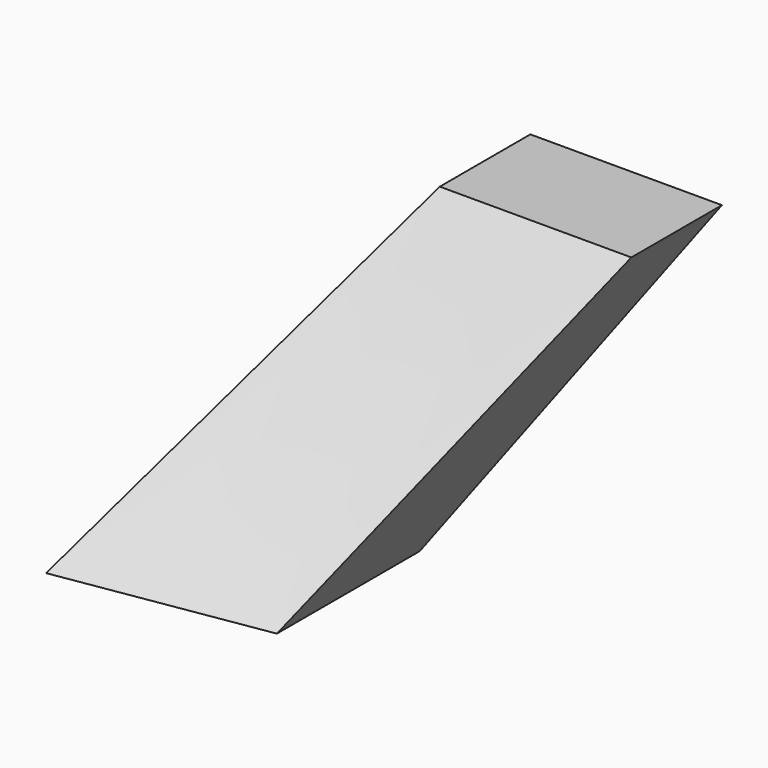
from build123d import *

# Parameters (mm, degrees)
F2_W = 36.537992
F2_H = 21.590634


with BuildPart() as f3:
    # F0 (on Top) → F3 section 0
    with BuildSketch(Plane.XY):
        Polygon((-20.952431, -29.079724), (-54.999199, -17.453996), (-59.981655, -69.354557), (-20.952431, -63.12649), align=None)
    # F2 (on offset) → F3 section 1
    with BuildSketch(Plane.XY.offset(50.8)):
        with Locations((-12.835574, -0.812563)):
            Rectangle(F2_W, F2_H)
    loft()


solid = f3.part
